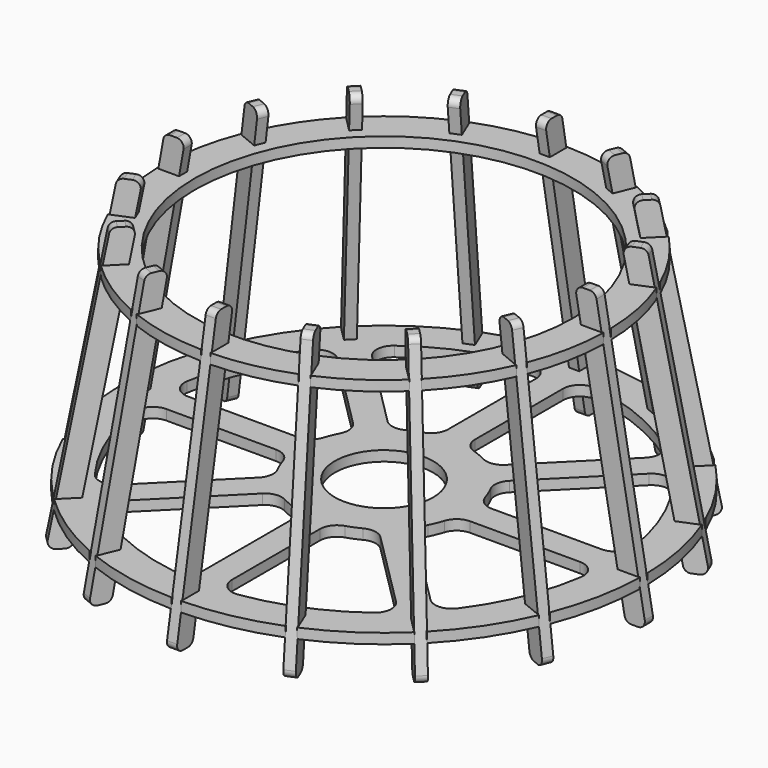
from build123d import *

# Parameters (mm, degrees)
F1_R     = 55.833
F2_DEPTH = 3
F3_R     = 14.5
F4_DEPTH = 3
F6_DEPTH = 1.5
F7_COUNT = 16


with BuildPart() as f2:
    # F1 (on Top) → F2 (new body)
    with BuildSketch(Plane.XY):
        with BuildLine():
            Line((-62.818112, -1.4), (-65.818112, -1.4))
            ThreePointArc((-65.818112, -1.4), (-64.568037, -12.843381), (-61.343764, -23.89407))
            Line((-61.343764, -23.89407), (-58.572125, -22.746019))
            Line((-58.572125, -22.746019), (-57.500611, -25.332882))
            Line((-57.500611, -25.332882), (-60.27225, -26.480932))
            ThreePointArc((-60.27225, -26.480932), (-54.738139, -36.574855), (-47.530383, -45.550484))
            Line((-47.530383, -45.550484), (-45.409063, -43.429164))
            Line((-45.409063, -43.429164), (-43.429164, -45.409063))
            Line((-43.429164, -45.409063), (-45.550484, -47.530383))
            ThreePointArc((-45.550484, -47.530383), (-36.574855, -54.738139), (-26.480932, -60.27225))
            Line((-26.480932, -60.27225), (-25.332882, -57.500611))
            Line((-25.332882, -57.500611), (-22.746019, -58.572125))
            Line((-22.746019, -58.572125), (-23.89407, -61.343764))
            ThreePointArc((-23.89407, -61.343764), (-12.843381, -64.568037), (-1.4, -65.818112))
            Line((-1.4, -65.818112), (-1.4, -62.818112))
            Line((-1.4, -62.818112), (1.4, -62.818112))
            Line((1.4, -62.818112), (1.4, -65.818112))
            ThreePointArc((1.4, -65.818112), (12.843381, -64.568037), (23.89407, -61.343764))
            Line((23.89407, -61.343764), (22.746019, -58.572125))
            Line((22.746019, -58.572125), (25.332882, -57.500611))
            Line((25.332882, -57.500611), (26.480932, -60.27225))
            ThreePointArc((26.480932, -60.27225), (36.574855, -54.738139), (45.550484, -47.530383))
            Line((45.550484, -47.530383), (43.429164, -45.409063))
            Line((43.429164, -45.409063), (45.409063, -43.429164))
            Line((45.409063, -43.429164), (47.530383, -45.550484))
            ThreePointArc((47.530383, -45.550484), (54.738139, -36.574855), (60.27225, -26.480932))
            Line((60.27225, -26.480932), (57.500611, -25.332882))
            Line((57.500611, -25.332882), (58.572125, -22.746019))
            Line((58.572125, -22.746019), (61.343764, -23.89407))
            ThreePointArc((61.343764, -23.89407), (64.568037, -12.843381), (65.818112, -1.4))
            Line((65.818112, -1.4), (62.818112, -1.4))
            Line((62.818112, -1.4), (62.818112, 1.4))
            Line((62.818112, 1.4), (65.818112, 1.4))
            ThreePointArc((65.818112, 1.4), (64.568037, 12.843381), (61.343764, 23.89407))
            Line((61.343764, 23.89407), (58.572125, 22.746019))
            Line((58.572125, 22.746019), (57.500611, 25.332882))
            Line((57.500611, 25.332882), (60.27225, 26.480932))
            ThreePointArc((60.27225, 26.480932), (54.738139, 36.574855), (47.530383, 45.550484))
            Line((47.530383, 45.550484), (45.409063, 43.429164))
            Line((45.409063, 43.429164), (43.429164, 45.409063))
            Line((43.429164, 45.409063), (45.550484, 47.530383))
            ThreePointArc((45.550484, 47.530383), (36.574855, 54.738139), (26.480932, 60.27225))
            Line((26.480932, 60.27225), (25.332882, 57.500611))
            Line((25.332882, 57.500611), (22.746019, 58.572125))
            Line((22.746019, 58.572125), (23.89407, 61.343764))
            ThreePointArc((23.89407, 61.343764), (12.843381, 64.568037), (1.4, 65.818112))
            Line((1.4, 65.818112), (1.4, 62.818112))
            Line((1.4, 62.818112), (-1.4, 62.818112))
            Line((-1.4, 62.818112), (-1.4, 65.818112))
            ThreePointArc((-1.4, 65.818112), (-12.843381, 64.568037), (-23.89407, 61.343764))
            Line((-23.89407, 61.343764), (-22.746019, 58.572125))
            Line((-22.746019, 58.572125), (-25.332882, 57.500611))
            Line((-25.332882, 57.500611), (-26.480932, 60.27225))
            ThreePointArc((-26.480932, 60.27225), (-36.574855, 54.738139), (-45.550484, 47.530383))
            Line((-45.550484, 47.530383), (-43.429164, 45.409063))
            Line((-43.429164, 45.409063), (-45.409063, 43.429164))
            Line((-45.409063, 43.429164), (-47.530383, 45.550484))
            ThreePointArc((-47.530383, 45.550484), (-54.738139, 36.574855), (-60.27225, 26.480932))
            Line((-60.27225, 26.480932), (-57.500611, 25.332882))
            Line((-57.500611, 25.332882), (-58.572125, 22.746019))
            Line((-58.572125, 22.746019), (-61.343764, 23.89407))
            ThreePointArc((-61.343764, 23.89407), (-64.568037, 12.843381), (-65.818112, 1.4))
            Line((-65.818112, 1.4), (-62.818112, 1.4))
            Line((-62.818112, 1.4), (-62.818112, -1.4))
        make_face()
        Circle(F1_R, mode=Mode.SUBTRACT)
    extrude(amount=F2_DEPTH)


with BuildPart() as f4:
    # F3 (on offset) → F4 (new body)
    with BuildSketch(Plane.XY.offset(-60)):
        with BuildLine():
            Line((-73.654216, -1.4), (-76.654216, -1.4))
            ThreePointArc((-76.654216, -1.4), (-75.193865, -14.95699), (-71.355018, -28.040867))
            Line((-71.355018, -28.040867), (-68.58338, -26.892817))
            Line((-68.58338, -26.892817), (-67.511866, -29.47968))
            Line((-67.511866, -29.47968), (-70.283505, -30.62773))
            ThreePointArc((-70.283505, -30.62773), (-63.746281, -42.593903), (-55.192666, -53.212767))
            Line((-55.192666, -53.212767), (-53.071345, -51.091446))
            Line((-53.071345, -51.091446), (-51.091446, -53.071345))
            Line((-51.091446, -53.071345), (-53.212767, -55.192666))
            ThreePointArc((-53.212767, -55.192666), (-42.593903, -63.746281), (-30.62773, -70.283505))
            Line((-30.62773, -70.283505), (-29.47968, -67.511866))
            Line((-29.47968, -67.511866), (-26.892817, -68.58338))
            Line((-26.892817, -68.58338), (-28.040867, -71.355018))
            ThreePointArc((-28.040867, -71.355018), (-14.95699, -75.193865), (-1.4, -76.654216))
            Line((-1.4, -76.654216), (-1.4, -73.654216))
            Line((-1.4, -73.654216), (1.4, -73.654216))
            Line((1.4, -73.654216), (1.4, -76.654216))
            ThreePointArc((1.4, -76.654216), (14.95699, -75.193865), (28.040867, -71.355018))
            Line((28.040867, -71.355018), (26.892817, -68.58338))
            Line((26.892817, -68.58338), (29.47968, -67.511866))
            Line((29.47968, -67.511866), (30.62773, -70.283505))
            ThreePointArc((30.62773, -70.283505), (42.593903, -63.746281), (53.212767, -55.192666))
            Line((53.212767, -55.192666), (51.091446, -53.071345))
            Line((51.091446, -53.071345), (53.071345, -51.091446))
            Line((53.071345, -51.091446), (55.192666, -53.212767))
            ThreePointArc((55.192666, -53.212767), (63.746281, -42.593903), (70.283505, -30.62773))
            Line((70.283505, -30.62773), (67.511866, -29.47968))
            Line((67.511866, -29.47968), (68.58338, -26.892817))
            Line((68.58338, -26.892817), (71.355018, -28.040867))
            ThreePointArc((71.355018, -28.040867), (75.193865, -14.95699), (76.654216, -1.4))
            Line((76.654216, -1.4), (73.654216, -1.4))
            Line((73.654216, -1.4), (73.654216, 1.4))
            Line((73.654216, 1.4), (76.654216, 1.4))
            ThreePointArc((76.654216, 1.4), (75.193865, 14.95699), (71.355018, 28.040867))
            Line((71.355018, 28.040867), (68.58338, 26.892817))
            Line((68.58338, 26.892817), (67.511866, 29.47968))
            Line((67.511866, 29.47968), (70.283505, 30.62773))
            ThreePointArc((70.283505, 30.62773), (63.746281, 42.593903), (55.192666, 53.212767))
            Line((55.192666, 53.212767), (53.071345, 51.091446))
            Line((53.071345, 51.091446), (51.091446, 53.071345))
            Line((51.091446, 53.071345), (53.212767, 55.192666))
            ThreePointArc((53.212767, 55.192666), (42.593903, 63.746281), (30.62773, 70.283505))
            Line((30.62773, 70.283505), (29.47968, 67.511866))
            Line((29.47968, 67.511866), (26.892817, 68.58338))
            Line((26.892817, 68.58338), (28.040867, 71.355018))
            ThreePointArc((28.040867, 71.355018), (14.95699, 75.193865), (1.4, 76.654216))
            Line((1.4, 76.654216), (1.4, 73.654216))
            Line((1.4, 73.654216), (-1.4, 73.654216))
            Line((-1.4, 73.654216), (-1.4, 76.654216))
            ThreePointArc((-1.4, 76.654216), (-14.95699, 75.193865), (-28.040867, 71.355018))
            Line((-28.040867, 71.355018), (-26.892817, 68.58338))
            Line((-26.892817, 68.58338), (-29.47968, 67.511866))
            Line((-29.47968, 67.511866), (-30.62773, 70.283505))
            ThreePointArc((-30.62773, 70.283505), (-42.593903, 63.746281), (-53.212767, 55.192666))
            Line((-53.212767, 55.192666), (-51.091446, 53.071345))
            Line((-51.091446, 53.071345), (-53.071345, 51.091446))
            Line((-53.071345, 51.091446), (-55.192666, 53.212767))
            ThreePointArc((-55.192666, 53.212767), (-63.746281, 42.593903), (-70.283505, 30.62773))
            Line((-70.283505, 30.62773), (-67.511866, 29.47968))
            Line((-67.511866, 29.47968), (-68.58338, 26.892817))
            Line((-68.58338, 26.892817), (-71.355018, 28.040867))
            ThreePointArc((-71.355018, 28.040867), (-75.193865, 14.95699), (-76.654216, 1.4))
            Line((-76.654216, 1.4), (-73.654216, 1.4))
            Line((-73.654216, 1.4), (-73.654216, -1.4))
        make_face()
        with BuildLine():
            Line((-40.309833, -45.966687), (-17.407679, -23.064533))
            ThreePointArc((-17.407679, -23.064533), (-14.630934, -21.657979), (-11.560121, -22.166723))
            ThreePointArc((-11.560121, -22.166723), (-9.567086, -23.096988), (-7.5, -23.84848))
            ThreePointArc((-7.5, -23.84848), (-4.968871, -25.660136), (-4, -28.618176))
            Line((-4, -28.618176), (-4, -61.006712))
            ThreePointArc((-4, -61.006712), (-5.732633, -64.791459), (-9.729726, -65.953175))
            ThreePointArc((-9.729726, -65.953175), (-25.512356, -61.592277), (-39.755982, -53.515893))
            ThreePointArc((-39.755982, -53.515893), (-41.760896, -49.868064), (-40.309833, -45.966687))
        make_face(mode=Mode.SUBTRACT)
        with BuildLine():
            Line((-61.006712, -4), (-28.618176, -4))
            ThreePointArc((-28.618176, -4), (-25.660136, -4.968871), (-23.84848, -7.5))
            ThreePointArc((-23.84848, -7.5), (-23.096988, -9.567086), (-22.166723, -11.560121))
            ThreePointArc((-22.166723, -11.560121), (-21.657979, -14.630934), (-23.064533, -17.407679))
            Line((-23.064533, -17.407679), (-45.966687, -40.309833))
            ThreePointArc((-45.966687, -40.309833), (-49.868064, -41.760896), (-53.515893, -39.755982))
            ThreePointArc((-53.515893, -39.755982), (-61.592277, -25.512356), (-65.953175, -9.729726))
            ThreePointArc((-65.953175, -9.729726), (-64.791459, -5.732633), (-61.006712, -4))
        make_face(mode=Mode.SUBTRACT)
        with BuildLine():
            Line((4, -61.006712), (4, -28.618176))
            ThreePointArc((4, -28.618176), (4.968871, -25.660136), (7.5, -23.84848))
            ThreePointArc((7.5, -23.84848), (9.567086, -23.096988), (11.560121, -22.166723))
            ThreePointArc((11.560121, -22.166723), (14.630934, -21.657979), (17.407679, -23.064533))
            Line((17.407679, -23.064533), (40.309833, -45.966687))
            ThreePointArc((40.309833, -45.966687), (41.760896, -49.868064), (39.755982, -53.515893))
            ThreePointArc((39.755982, -53.515893), (25.512356, -61.592277), (9.729726, -65.953175))
            ThreePointArc((9.729726, -65.953175), (5.732633, -64.791459), (4, -61.006712))
        make_face(mode=Mode.SUBTRACT)
        with BuildLine():
            Line((45.966687, -40.309833), (23.064533, -17.407679))
            ThreePointArc((23.064533, -17.407679), (21.657979, -14.630934), (22.166723, -11.560121))
            ThreePointArc((22.166723, -11.560121), (23.096988, -9.567086), (23.84848, -7.5))
            ThreePointArc((23.84848, -7.5), (25.660136, -4.968871), (28.618176, -4))
            Line((28.618176, -4), (61.006712, -4))
            ThreePointArc((61.006712, -4), (64.791459, -5.732633), (65.953175, -9.729726))
            ThreePointArc((65.953175, -9.729726), (61.592277, -25.512356), (53.515893, -39.755982))
            ThreePointArc((53.515893, -39.755982), (49.868064, -41.760896), (45.966687, -40.309833))
        make_face(mode=Mode.SUBTRACT)
        with BuildLine():
            Line((-45.966687, 40.309833), (-23.064533, 17.407679))
            ThreePointArc((-23.064533, 17.407679), (-21.657979, 14.630934), (-22.166723, 11.560121))
            ThreePointArc((-22.166723, 11.560121), (-23.096988, 9.567086), (-23.84848, 7.5))
            ThreePointArc((-23.84848, 7.5), (-25.660136, 4.968871), (-28.618176, 4))
            Line((-28.618176, 4), (-61.006712, 4))
            ThreePointArc((-61.006712, 4), (-64.791459, 5.732633), (-65.953175, 9.729726))
            ThreePointArc((-65.953175, 9.729726), (-61.592277, 25.512356), (-53.515893, 39.755982))
            ThreePointArc((-53.515893, 39.755982), (-49.868064, 41.760896), (-45.966687, 40.309833))
        make_face(mode=Mode.SUBTRACT)
        with BuildLine():
            ThreePointArc((-39.755982, 53.515893), (-25.512356, 61.592277), (-9.729726, 65.953175))
            ThreePointArc((-9.729726, 65.953175), (-5.732633, 64.791459), (-4, 61.006712))
            Line((-4, 61.006712), (-4, 28.618176))
            ThreePointArc((-4, 28.618176), (-4.968871, 25.660136), (-7.5, 23.84848))
            ThreePointArc((-7.5, 23.84848), (-9.567086, 23.096988), (-11.560121, 22.166723))
            ThreePointArc((-11.560121, 22.166723), (-14.630934, 21.657979), (-17.407679, 23.064533))
            Line((-17.407679, 23.064533), (-40.309833, 45.966687))
            ThreePointArc((-40.309833, 45.966687), (-41.760896, 49.868064), (-39.755982, 53.515893))
        make_face(mode=Mode.SUBTRACT)
        Circle(F3_R, mode=Mode.SUBTRACT)
        with BuildLine():
            Line((61.006712, 4), (28.618176, 4))
            ThreePointArc((28.618176, 4), (25.660136, 4.968871), (23.84848, 7.5))
            ThreePointArc((23.84848, 7.5), (23.096988, 9.567086), (22.166723, 11.560121))
            ThreePointArc((22.166723, 11.560121), (21.657979, 14.630934), (23.064533, 17.407679))
            Line((23.064533, 17.407679), (45.966687, 40.309833))
            ThreePointArc((45.966687, 40.309833), (49.868064, 41.760896), (53.515893, 39.755982))
            ThreePointArc((53.515893, 39.755982), (61.592277, 25.512356), (65.953175, 9.729726))
            ThreePointArc((65.953175, 9.729726), (64.791459, 5.732633), (61.006712, 4))
        make_face(mode=Mode.SUBTRACT)
        with BuildLine():
            ThreePointArc((7.5, 23.84848), (4.968871, 25.660136), (4, 28.618176))
            Line((4, 28.618176), (4, 61.006712))
            ThreePointArc((4, 61.006712), (5.732633, 64.791459), (9.729726, 65.953175))
            ThreePointArc((9.729726, 65.953175), (25.512356, 61.592277), (39.755982, 53.515893))
            ThreePointArc((39.755982, 53.515893), (41.760896, 49.868064), (40.309833, 45.966687))
            Line((40.309833, 45.966687), (17.407679, 23.064533))
            ThreePointArc((17.407679, 23.064533), (14.630934, 21.657979), (11.560121, 22.166723))
            ThreePointArc((11.560121, 22.166723), (9.567086, 23.096988), (7.5, 23.84848))
        make_face(mode=Mode.SUBTRACT)
    extrude(amount=F4_DEPTH)


with BuildPart() as f6:
    # F5 (on Front) → F6 (new body, symmetric)
    with BuildSketch(Plane.XZ):
        with BuildLine():
            Line((-59.315327, 2.8), (-57.935046, 10.444635))
            ThreePointArc((-57.935046, 10.444635), (-58.368502, 12.082433), (-59.903222, 12.8))
            Line((-59.903222, 12.8), (-61.935561, 12.8))
            ThreePointArc((-61.935561, 12.8), (-63.217994, 12.33472), (-63.903736, 11.155365))
            Line((-63.903736, 11.155365), (-78.131514, -67.644635))
            ThreePointArc((-78.131514, -67.644635), (-77.698058, -69.282433), (-76.163339, -70))
            Line((-76.163339, -70), (-74.131, -70))
            ThreePointArc((-74.131, -70), (-72.848566, -69.53472), (-72.162824, -68.355365))
            Line((-72.162824, -68.355365), (-70.654216, -60))
            Line((-70.654216, -60), (-73.654216, -60))
            Line((-73.654216, -60), (-73.654216, -57.2))
            Line((-73.654216, -57.2), (-70.148661, -57.2))
            Line((-70.148661, -57.2), (-59.820883, 0))
            Line((-59.820883, 0), (-62.820883, 0))
            Line((-62.820883, 0), (-62.820883, 2.8))
            Line((-62.820883, 2.8), (-59.315327, 2.8))
        make_face()
    extrude(amount=F6_DEPTH, both=True)


with BuildPart() as f7_1:
    # F7: instance of F6
    add(f6.part.rotate(Axis((0, 0, 0), (0, 0, 1)), 1 * 360 / F7_COUNT))


with BuildPart() as f7_2:
    # F7: instance of F6
    add(f6.part.rotate(Axis((0, 0, 0), (0, 0, 1)), 2 * 360 / F7_COUNT))


with BuildPart() as f7_3:
    # F7: instance of F6
    add(f6.part.rotate(Axis((0, 0, 0), (0, 0, 1)), 3 * 360 / F7_COUNT))


with BuildPart() as f7_4:
    # F7: instance of F6
    add(f6.part.rotate(Axis((0, 0, 0), (0, 0, 1)), 4 * 360 / F7_COUNT))


with BuildPart() as f7_5:
    # F7: instance of F6
    add(f6.part.rotate(Axis((0, 0, 0), (0, 0, 1)), 5 * 360 / F7_COUNT))


with BuildPart() as f7_6:
    # F7: instance of F6
    add(f6.part.rotate(Axis((0, 0, 0), (0, 0, 1)), 6 * 360 / F7_COUNT))


with BuildPart() as f7_7:
    # F7: instance of F6
    add(f6.part.rotate(Axis((0, 0, 0), (0, 0, 1)), 7 * 360 / F7_COUNT))


with BuildPart() as f7_8:
    # F7: instance of F6
    add(f6.part.rotate(Axis((0, 0, 0), (0, 0, 1)), 8 * 360 / F7_COUNT))


with BuildPart() as f7_9:
    # F7: instance of F6
    add(f6.part.rotate(Axis((0, 0, 0), (0, 0, 1)), 9 * 360 / F7_COUNT))


with BuildPart() as f7_10:
    # F7: instance of F6
    add(f6.part.rotate(Axis((0, 0, 0), (0, 0, 1)), 10 * 360 / F7_COUNT))


with BuildPart() as f7_11:
    # F7: instance of F6
    add(f6.part.rotate(Axis((0, 0, 0), (0, 0, 1)), 11 * 360 / F7_COUNT))


with BuildPart() as f7_12:
    # F7: instance of F6
    add(f6.part.rotate(Axis((0, 0, 0), (0, 0, 1)), 12 * 360 / F7_COUNT))


with BuildPart() as f7_13:
    # F7: instance of F6
    add(f6.part.rotate(Axis((0, 0, 0), (0, 0, 1)), 13 * 360 / F7_COUNT))


with BuildPart() as f7_14:
    # F7: instance of F6
    add(f6.part.rotate(Axis((0, 0, 0), (0, 0, 1)), 14 * 360 / F7_COUNT))


with BuildPart() as f7_15:
    # F7: instance of F6
    add(f6.part.rotate(Axis((0, 0, 0), (0, 0, 1)), 15 * 360 / F7_COUNT))


solid = Compound([f2.part, f4.part, f6.part, f7_1.part, f7_2.part, f7_3.part, f7_4.part, f7_5.part, f7_6.part, f7_7.part, f7_8.part, f7_9.part, f7_10.part, f7_11.part, f7_12.part, f7_13.part, f7_14.part, f7_15.part])
